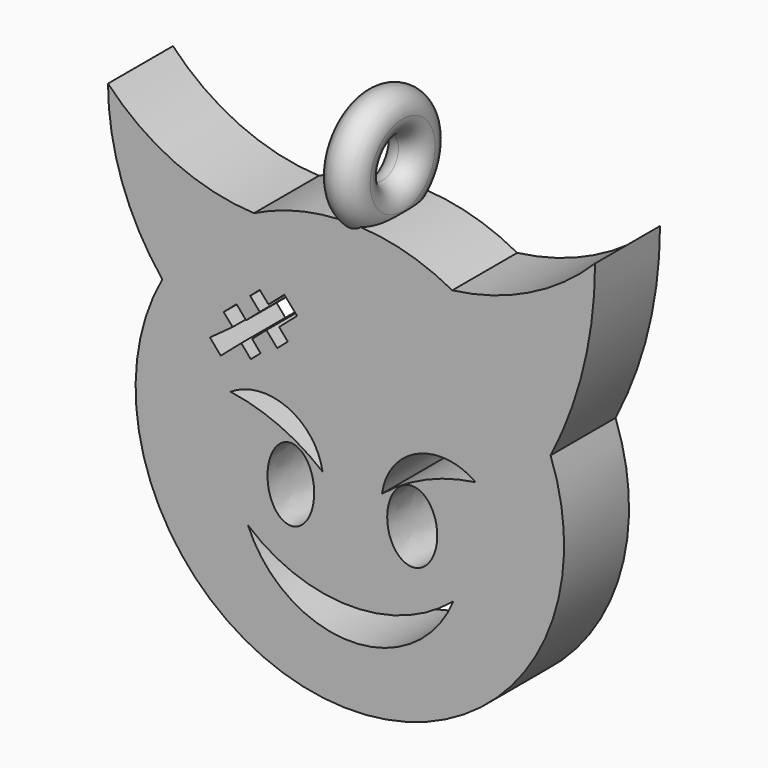
from build123d import *

# Parameters (mm, degrees)
F1_DEPTH = 6.35
F3_DEPTH = 6.35


with BuildPart() as f1:
    # F0 (on Front) → F1 (new body)
    with BuildSketch(Plane.XZ):
        with BuildLine():
            ThreePointArc((19.181395, 20.203114), (14.052681, 16.534086), (8.012758, 14.721684))
            ThreePointArc((8.012758, 14.721684), (0.289171, 16.758539), (-7.500089, 14.989361))
            ThreePointArc((-7.500089, 14.989361), (-13.716297, 16.485978), (-18.918605, 20.203114))
            ThreePointArc((-18.918605, 20.203114), (-17.826595, 13.790316), (-14.673657, 8.100373))
            ThreePointArc((-14.673657, 8.100373), (-1.233876, -16.715556), (15.70401, 5.858015))
            ThreePointArc((15.70401, 5.858015), (18.299639, 12.822835), (19.181395, 20.203114))
        make_face()
        with BuildLine():
            ThreePointArc((8.10602, -6.653593), (0.068926, -12.043612), (-7.968167, -6.653593))
            ThreePointArc((-7.968167, -6.653593), (0.068926, -9.617061), (8.10602, -6.653593))
        make_face(mode=Mode.SUBTRACT)
        with BuildLine():
            ThreePointArc((-9.333542, 2.097219), (-4.876024, 2.465913), (-2.134293, -1.067968))
            ThreePointArc((-2.134293, -1.067968), (-5.517987, 1.005761), (-9.333542, 2.097219))
        make_face(mode=Mode.SUBTRACT)
        with BuildLine():
            add(Edge.make_bspline(
                [(-4.616792, 0.11122), (-7.779488, 0.11122), (-6.19814, -4.171093), (-4.616792, -8.453405), (-3.035445, -4.171093), (-1.454097, 0.11122), (-4.616792, 0.11122)],
                knots=[0, 0, 0, 2.094395, 2.094395, 4.18879, 4.18879, 6.283185, 6.283185, 6.283185], degree=2, weights=[1, 0.5, 1, 0.5, 1, 0.5, 1]))
        make_face(mode=Mode.SUBTRACT)
        with BuildLine():
            add(Edge.make_bspline(
                [(4.87877, 0.235344), (1.488251, 0.235344), (3.183511, -3.953874), (4.87877, -8.143093), (6.57403, -3.953874), (8.269289, 0.235344), (4.87877, 0.235344)],
                knots=[0, 0, 0, 2.094395, 2.094395, 4.18879, 4.18879, 6.283185, 6.283185, 6.283185], degree=2, weights=[1, 0.5, 1, 0.5, 1, 0.5, 1]))
        make_face(mode=Mode.SUBTRACT)
        with BuildLine():
            ThreePointArc((2.520395, -1.067968), (5.286956, 2.585701), (9.84377, 2.097219))
            ThreePointArc((9.84377, 2.097219), (5.964175, 1.018804), (2.520395, -1.067968))
        make_face(mode=Mode.SUBTRACT)
    extrude(amount=F1_DEPTH)

    # F2 (on face) → F3 (cut)
    with BuildSketch(Plane.XZ.offset(6.35)):
        Polygon((-9.16881, 6.605397), (-10.947034, 5.310706), (-10.096497, 4.329317), (-8.496134, 5.716297), (-7.747058, 4.851977), (-6.98237, 5.514705), (-7.648337, 6.283129), (-6.526215, 7.255634), (-5.683378, 6.283129), (-4.851439, 7.004143), (-5.534531, 7.792326), (-4.129699, 9.009846), (-5.121633, 10.154386), (-6.368298, 9.073945), (-7.046136, 9.856067), (-7.797124, 9.205212), (-7.046136, 8.338687), (-8.11346, 7.413674), (-8.866605, 8.282689), (-9.869316, 7.413674), align=None)
    extrude(amount=-F3_DEPTH, mode=Mode.SUBTRACT)

    # F5 (on offset) → F6 (revolve)
    with BuildSketch(Plane.XZ.offset(3.175)):
        with BuildLine():
            ThreePointArc((0, 18.380211), (-1.122532, 15.670179), (1.5875, 16.792711))
            ThreePointArc((1.5875, 16.792711), (1.122532, 17.915243), (0, 18.380211))
        make_face()
    revolve(axis=Axis((-7.444045, -3.175, 19.967711), (-1, 0, 0)))


solid = f1.part
